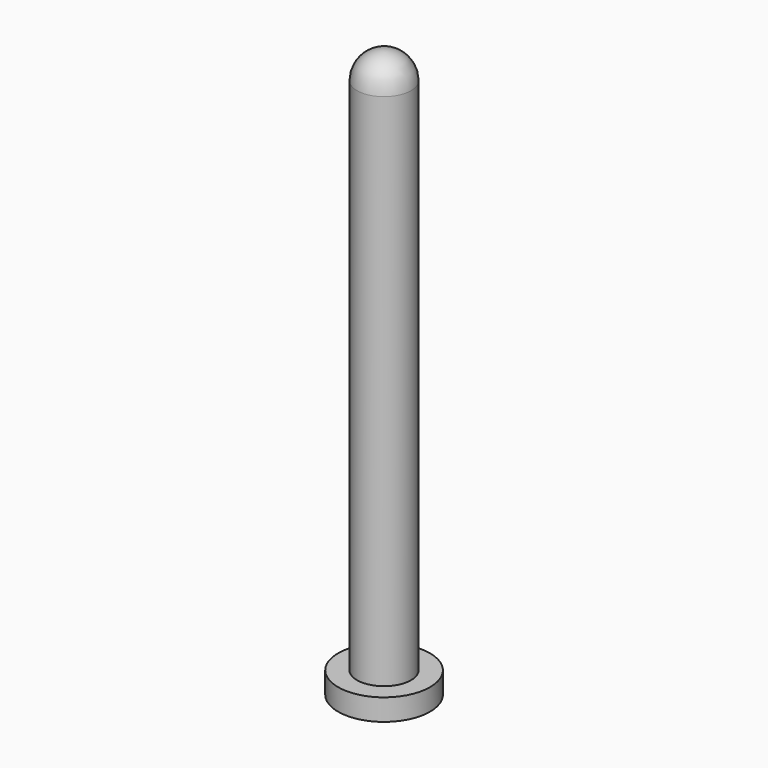
from build123d import *

# Parameters (mm, degrees)
F0_R     = 8.5
F1_DEPTH = 4
F2_R     = 5
F3_DEPTH = 100


with BuildPart() as f1:
    # F0 (on Top) → F1 (new body)
    with BuildSketch(Plane.XY):
        Circle(F0_R)
    extrude(amount=F1_DEPTH)

    # F2 (on Top) → F3 (join)
    with BuildSketch(Plane.XY):
        Circle(F2_R)
    extrude(amount=F3_DEPTH)

    # F4 (on Right) → F5 (revolve)
    with BuildSketch(Plane.YZ):
        with BuildLine():
            Line((0, 100), (5, 100))
            ThreePointArc((5, 100), (3.535534, 103.535534), (0, 105))
            Line((0, 105), (0, 100))
        make_face()
    revolve(axis=Axis((0, 0, 102.5), (0, 0, -1)))


solid = f1.part
